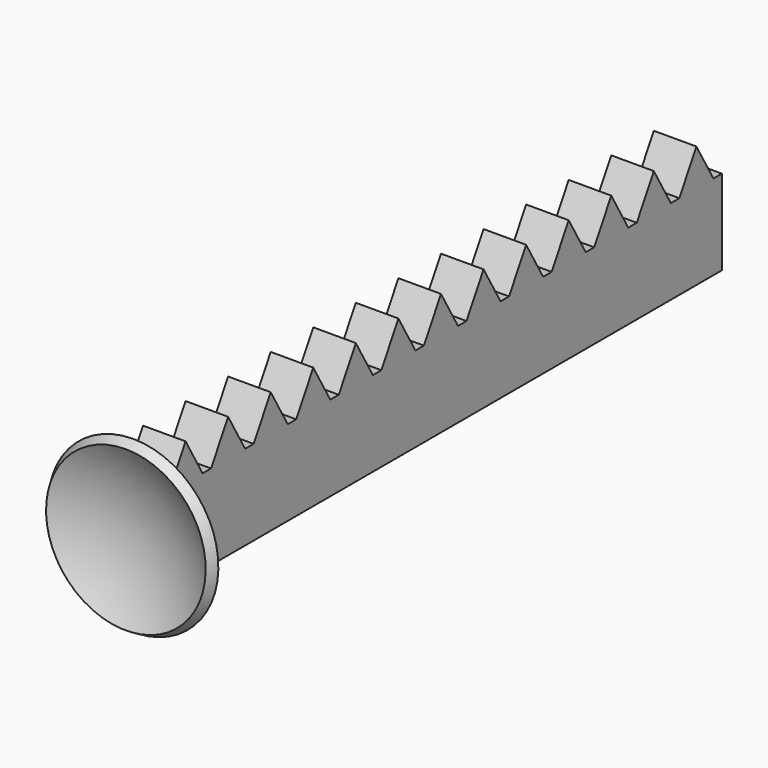
from build123d import *

# Parameters (mm, degrees)
F1_DEPTH      = 2
F1_DEPTH_BACK = 2


with BuildPart() as f1:
    # F0 (on Right) → F1 (new body, two sides)
    with BuildSketch(Plane.YZ) as f1_sk:
        Polygon((0, 8), (0, 0), (65, 0), (65, 8), (64, 8), (62, 11.464102), (60, 8), (59, 8), (57, 11.464102), (55, 8), (54, 8), (52, 11.464102), (50, 8), (49, 8), (47, 11.464102), (45, 8), (44, 8), (42, 11.464102), (40, 8), (39, 8), (37, 11.464102), (35, 8), (34, 8), (32, 11.464102), (30, 8), (29, 8), (27, 11.464102), (25, 8), (24, 8), (22, 11.464102), (20, 8), (19, 8), (17, 11.464102), (15, 8), (14, 8), (12, 11.464102), (10, 8), (9, 8), (7, 11.464102), (5, 8), (4, 8), (2, 11.464102), align=None)
    extrude(amount=F1_DEPTH)
    extrude(f1_sk.sketch, amount=-F1_DEPTH_BACK)

    # F2 (on Right) → F3 (revolve)
    with BuildSketch(Plane.YZ):
        with BuildLine():
            ThreePointArc((-2.509619, 12), (-1.011113, 8.382286), (-0.5, 4.5))
            Line((-0.5, 4.5), (0.5, 4.5))
            ThreePointArc((0.5, 4.5), (-0.045187, 8.641105), (-1.643594, 12.5))
            Line((-1.643594, 12.5), (-2.509619, 12))
        make_face()
    revolve(axis=Axis((0, 0, 4.5), (0, 1, 0)))


solid = f1.part
